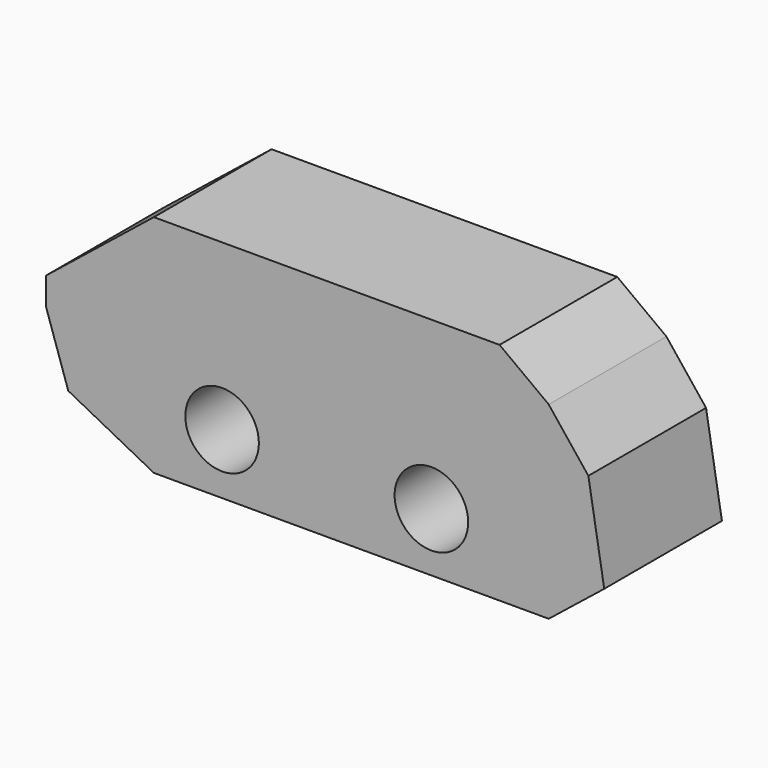
from build123d import *

# Parameters (mm, degrees)
F0_R     = 6.35
F1_DEPTH = 25.4


with BuildPart() as f1:
    # F0 (on Front) → F1 (new body)
    with BuildSketch(Plane.XZ):
        Polygon((29.156278, 14.92035), (-30.525118, 14.92035), (-49.141338, 0), (-49.141338, -4.790938), (-45.308587, -16.28919), (-30.525118, -23.95469), (37.643085, -23.95469), (47.224959, -16.28919), (44.487282, 0), (37.643085, 8.623689), align=None)
        with Locations((-18.753101, -13.551511)):
            Circle(F0_R, mode=Mode.SUBTRACT)
        with Locations((17.384261, -13.825279)):
            Circle(F0_R, mode=Mode.SUBTRACT)
    extrude(amount=F1_DEPTH)


solid = f1.part
